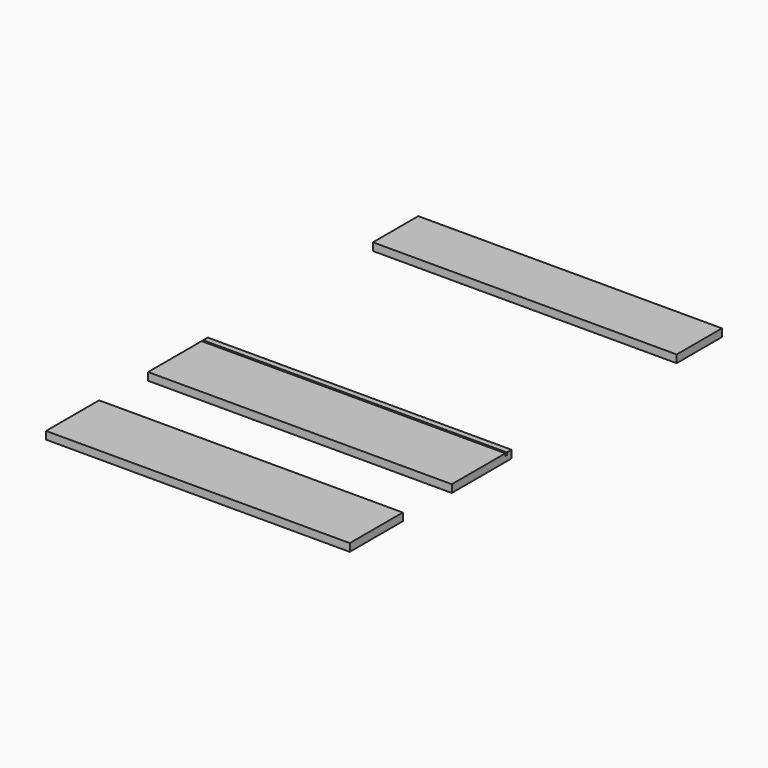
from build123d import *

# Parameters (mm, degrees)
F0_W     = 749.3
F0_H     = 163.5125
F1_DEPTH = 19.05
F2_W     = 749.3
F2_H     = 184.15
F3_DEPTH = 19.05
F4_W     = 749.3
F4_H     = 4.7625
F5_DEPTH = 6.35
F6_W     = 749.3
F6_H     = 139.7
F7_DEPTH = 19.05


with BuildPart() as f1:
    # F0 (on Top) → F1 (new body)
    with BuildSketch(Plane.XY):
        Rectangle(F0_W, F0_H)
    extrude(amount=F1_DEPTH)


with BuildPart() as f3:
    # F2 (on Top) → F3 (new body)
    with BuildSketch(Plane.XY):
        with Locations((0, 325.005321)):
            Rectangle(F2_W, F2_H)
    extrude(amount=F3_DEPTH)

    # F4 (on face) → F5 (cut)
    with BuildSketch(Plane.XY.offset(19.05)):
        with Locations((0, 400.411571)):
            Rectangle(F4_W, F4_H)
    extrude(amount=-F5_DEPTH, mode=Mode.SUBTRACT)


with BuildPart() as f7:
    # F6 (on Top) → F7 (new body)
    with BuildSketch(Plane.XY):
        with Locations((0, 996.189161)):
            Rectangle(F6_W, F6_H)
    extrude(amount=F7_DEPTH)


solid = Compound([f1.part, f3.part, f7.part])
